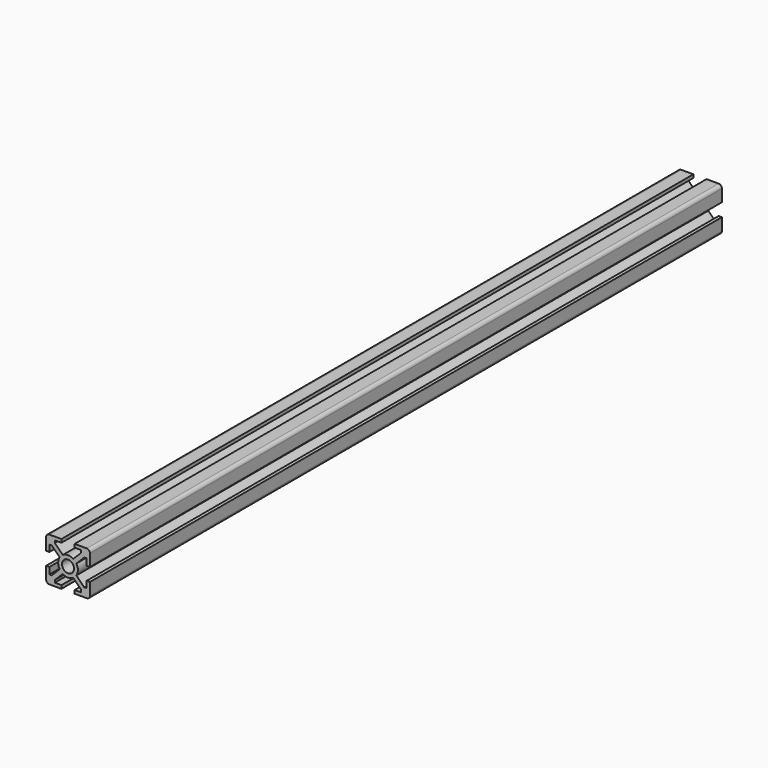
from build123d import *

# Parameters (mm, degrees)
F0_R     = 2.75
F1_DEPTH = 360


with BuildPart() as f1:
    # F0 (on Front) → F1 (new body)
    with BuildSketch(Plane.XZ):
        with BuildLine():
            ThreePointArc((0, 1.5), (0.43934, 0.43934), (1.5, 0))
            Line((1.5, 0), (7, 0))
            Line((7, 0), (7, 1.5))
            Line((7, 1.5), (4, 1.5))
            Line((4, 1.5), (4, 2.585786))
            Line((4, 2.585786), (7.604688, 6.190475))
            ThreePointArc((7.604688, 6.190475), (10, 5.5), (12.395312, 6.190475))
            Line((12.395312, 6.190475), (16, 2.585786))
            Line((16, 2.585786), (16, 1.5))
            Line((16, 1.5), (13, 1.5))
            Line((13, 1.5), (13, 0))
            Line((13, 0), (18.5, 0))
            ThreePointArc((18.5, 0), (19.56066, 0.43934), (20, 1.5))
            Line((20, 1.5), (20, 7))
            Line((20, 7), (18.5, 7))
            Line((18.5, 7), (18.5, 4))
            Line((18.5, 4), (17.414214, 4))
            Line((17.414214, 4), (13.809525, 7.604688))
            ThreePointArc((13.809525, 7.604688), (14.5, 10), (13.809525, 12.395312))
            Line((13.809525, 12.395312), (17.414214, 16))
            Line((17.414214, 16), (18.5, 16))
            Line((18.5, 16), (18.5, 13))
            Line((18.5, 13), (20, 13))
            Line((20, 13), (20, 18.5))
            ThreePointArc((20, 18.5), (19.56066, 19.56066), (18.5, 20))
            Line((18.5, 20), (13, 20))
            Line((13, 20), (13, 18.5))
            Line((13, 18.5), (16, 18.5))
            Line((16, 18.5), (16, 17.414214))
            Line((16, 17.414214), (12.395312, 13.809525))
            ThreePointArc((12.395312, 13.809525), (10, 14.5), (7.604688, 13.809525))
            Line((7.604688, 13.809525), (4, 17.414214))
            Line((4, 17.414214), (4, 18.5))
            Line((4, 18.5), (7, 18.5))
            Line((7, 18.5), (7, 20))
            Line((7, 20), (1.5, 20))
            ThreePointArc((1.5, 20), (0.43934, 19.56066), (0, 18.5))
            Line((0, 18.5), (0, 13))
            Line((0, 13), (1.5, 13))
            Line((1.5, 13), (1.5, 16))
            Line((1.5, 16), (2.585786, 16))
            Line((2.585786, 16), (6.190475, 12.395312))
            ThreePointArc((6.190475, 12.395312), (5.5, 10), (6.190475, 7.604688))
            Line((6.190475, 7.604688), (2.585786, 4))
            Line((2.585786, 4), (1.5, 4))
            Line((1.5, 4), (1.5, 7))
            Line((1.5, 7), (0, 7))
            Line((0, 7), (0, 1.5))
        make_face()
        with Locations((10, 10)):
            Circle(F0_R, mode=Mode.SUBTRACT)
    extrude(amount=F1_DEPTH)


solid = f1.part
